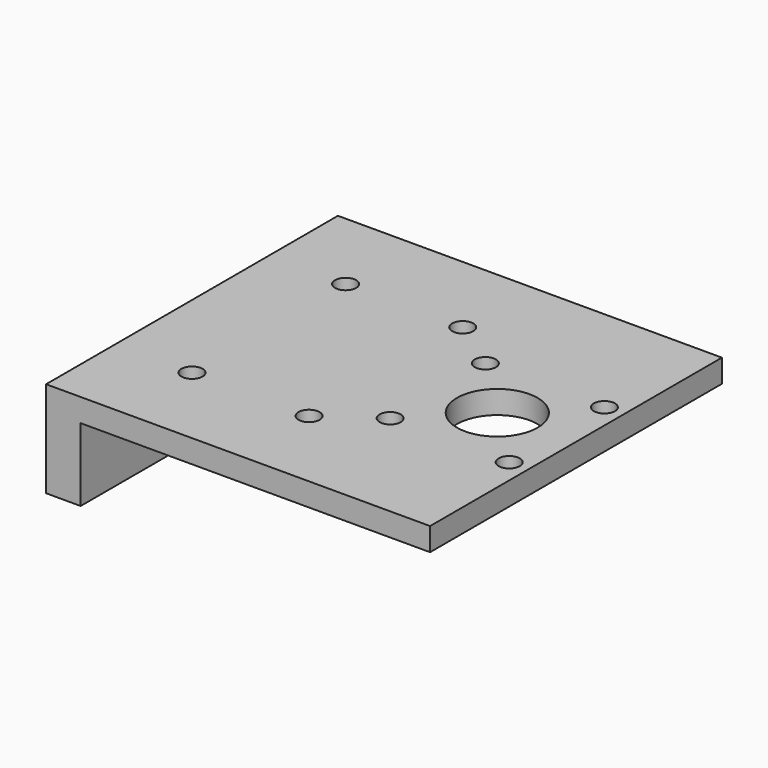
from build123d import *

# Parameters (mm, degrees)
F1_DEPTH = 95
F2_R     = 2.75
F2_R_2   = 10.5
F3_DEPTH = 6


with BuildPart() as f1:
    # F0 (on Front) → F1 (new body)
    with BuildSketch(Plane.XZ):
        Polygon((0, -6), (0, 0), (-100, 0), (-100, -25), (-91, -25), (-91, -6), align=None)
    extrude(amount=F1_DEPTH)

    # F2 (on face) → F3 (cut)
    with BuildSketch(Plane(origin=(0, 0, -6), x_dir=(1, 0, 0), z_dir=(0, 0, -1))):
        with Locations((-80, 72.5)):
            Circle(F2_R)
        with Locations((-49.5, 72.5)):
            Circle(F2_R)
        with Locations((-80, 22.5)):
            Circle(F2_R)
        with Locations((-49.5, 22.5)):
            Circle(F2_R)
        with Locations((-5, 32)):
            Circle(F2_R)
        with Locations((-5, 63)):
            Circle(F2_R)
        with Locations((-36, 32)):
            Circle(F2_R)
        with Locations((-36, 63)):
            Circle(F2_R)
        with Locations((-20.5, 47.5)):
            Circle(F2_R_2)
    extrude(amount=-F3_DEPTH, mode=Mode.SUBTRACT)


solid = f1.part
